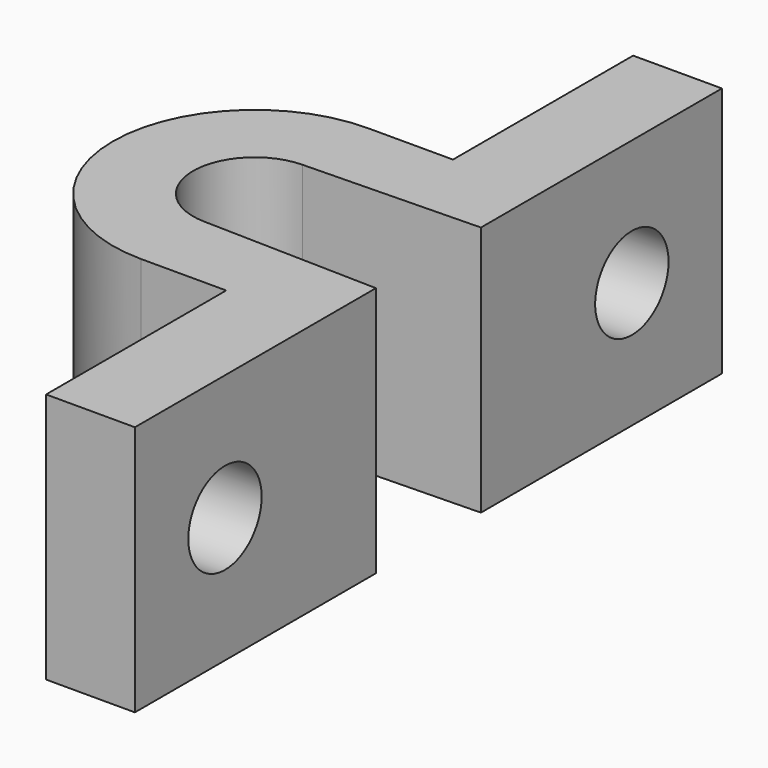
from build123d import *

# Parameters (mm, degrees)
F1_DEPTH = 13
F2_R     = 2.375
F3_DEPTH = 4.6


with BuildPart() as f1:
    # F0 (on Top) → F1 (new body)
    with BuildSketch(Plane.XY):
        with BuildLine():
            Line((-4.6, -19), (0, -19))
            Line((0, -19), (0, -3.4))
            Line((0, -3.4), (-9.075746, -3.184099))
            ThreePointArc((-9.075746, -3.184099), (-12.185, 0), (-9.075746, 3.184099))
            Line((-9.075746, 3.184099), (0, 3.4))
            Line((0, 3.4), (0, 19))
            Line((0, 19), (-4.6, 19))
            Line((-4.6, 19), (-4.6, 7.34))
            Line((-4.6, 7.34), (-9, 7.34))
            ThreePointArc((-9, 7.34), (-16.34, 0), (-9, -7.34))
            Line((-9, -7.34), (-4.6, -7.34))
            Line((-4.6, -7.34), (-4.6, -19))
        make_face()
    extrude(amount=F1_DEPTH)

    # F2 (on Right) → F3 (cut, through all)
    with BuildSketch(Plane.YZ):
        with Locations((-13.17, 6.5)):
            Circle(F2_R)
        with Locations((13.17, 6.5)):
            Circle(F2_R)
    extrude(amount=-F3_DEPTH, mode=Mode.SUBTRACT)


solid = f1.part
